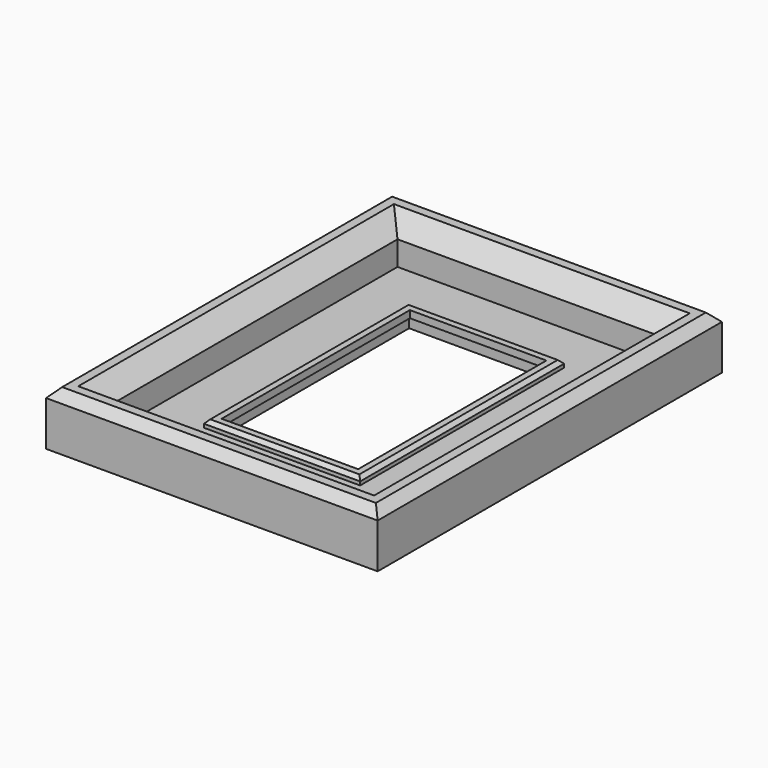
from build123d import *

# Parameters (mm, degrees)
SKETCH_W             = 185.32
SKETCH_H             = 240.5
PAD_DEPTH            = 30
SKETCH003_W          = 145.32
SKETCH003_H          = 200.5
POCKET_DEPTH         = 23.6
SKETCH004_W          = 80.32
SKETCH004_H          = 135.5
POCKET001_DEPTH      = 6.4
POCKET002_DEPTH      = 3
SKETCH006_W          = 14
SKETCH006_H          = 3
POCKET003_DEPTH      = 30
POCKET004_DEPTH      = 1.5
SKETCH008_W          = 12
SKETCH008_H          = 2.4244
POCKET005_DEPTH      = 30
SKETCH009_W          = 87.32
SKETCH009_H          = 142.5
PAD001_DEPTH         = 4
SKETCH010_W          = 76.32
SKETCH010_H          = 131.5
POCKET006_DEPTH      = 0.001
POCKET006_DEPTH_BACK = -30.001
CHAMFER_SIZE         = 10
CHAMFER001_SIZE      = 5
CHAMFER002_SIZE      = 2


with BuildPart() as part:
    # Sketch → Pad (new body)
    with BuildSketch(Plane.XY):
        Rectangle(SKETCH_W, SKETCH_H)
    extrude(amount=PAD_DEPTH)

    # Sketch003 → Pocket (cut)
    with BuildSketch(Plane.XY.offset(30)):
        Rectangle(SKETCH003_W, SKETCH003_H)
    extrude(amount=-POCKET_DEPTH, mode=Mode.SUBTRACT)

    # Sketch004 → Pocket001 (cut)
    with BuildSketch(Plane.XY.offset(6.4)):
        Rectangle(SKETCH004_W, SKETCH004_H)
    extrude(amount=-POCKET001_DEPTH, mode=Mode.SUBTRACT)

    # Sketch005 → Pocket002 (cut)
    with BuildSketch(Plane.XY):
        with BuildLine():
            ThreePointArc((-85.97, 0), (-82.985, -2.985), (-80, 0))
            Line((-80, 0), (-80, 18.025988))
            ThreePointArc((-80, 18.025988), (-82.985, 27.495), (-85.97, 18.025988))
            Line((-85.97, 18.025988), (-85.97, 0))
        make_face()
    extrude(amount=POCKET002_DEPTH, mode=Mode.SUBTRACT)

    # Sketch006 → Pocket003 (cut, symmetric)
    with BuildSketch(Plane.XZ):
        with Locations((-83, 4.48)):
            Rectangle(SKETCH006_W, SKETCH006_H)
    extrude(amount=POCKET003_DEPTH, both=True, mode=Mode.SUBTRACT)

    # Sketch007 → Pocket004 (cut, symmetric)
    with BuildSketch(Plane.XY):
        with BuildLine():
            ThreePointArc((0, 110.985), (-2.985, 108), (0, 105.015))
            Line((0, 105.015), (18.705988, 105.015))
            ThreePointArc((18.705988, 105.015), (28.175, 108), (18.705988, 110.985))
            Line((18.705988, 110.985), (0, 110.985))
        make_face()
    extrude(amount=POCKET004_DEPTH, both=True, mode=Mode.SUBTRACT)

    # Sketch008 → Pocket005 (cut, symmetric)
    with BuildSketch(Plane.YZ):
        with Locations((108, 2.7105)):
            Rectangle(SKETCH008_W, SKETCH008_H)
    extrude(amount=POCKET005_DEPTH, both=True, mode=Mode.SUBTRACT)

    # Sketch009 → Pad001 (join)
    with BuildSketch(Plane.XY.offset(6.4)):
        Rectangle(SKETCH009_W, SKETCH009_H)
    extrude(amount=PAD001_DEPTH)

    # Sketch010 → Pocket006 (cut, two sides)
    with BuildSketch(Plane.XY) as pocket006_sk:
        Rectangle(SKETCH010_W, SKETCH010_H)
    extrude(amount=-POCKET006_DEPTH, mode=Mode.SUBTRACT)
    extrude(pocket006_sk.sketch, amount=-POCKET006_DEPTH_BACK, mode=Mode.SUBTRACT)

    # Chamfer
    chamfer_edges = [part.edges().sort_by_distance(p)[0] for p in [
        (-72.66, 0, 30),
        (0, 100.25, 30),
        (72.66, 0, 30),
        (0, -100.25, 30),
    ]]
    chamfer(chamfer_edges, length=CHAMFER_SIZE)

    # Chamfer001
    chamfer001_edges = [part.edges().sort_by_distance(p)[0] for p in [
        (0, 120.25, 30),
        (-92.66, 0, 30),
        (0, -120.25, 30),
        (92.66, 0, 30),
    ]]
    chamfer(chamfer001_edges, length=CHAMFER001_SIZE)

    # Chamfer002
    chamfer002_edges = [part.edges().sort_by_distance(p)[0] for p in [
        (-43.66, 0, 10.4),
        (0, -71.25, 10.4),
        (43.66, 0, 10.4),
        (0, 71.25, 10.4),
    ]]
    chamfer(chamfer002_edges, length=CHAMFER002_SIZE)


solid = part.part
